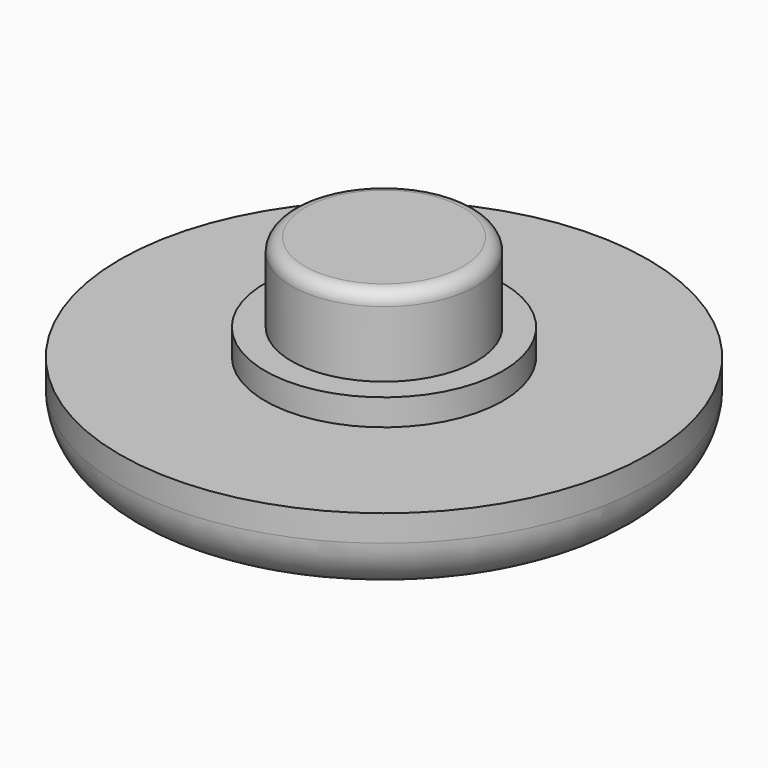
from build123d import *

# Parameters (mm, degrees)
F0_R     = 3.5
F1_DEPTH = 7
F0_R_2   = 4.5
F2_DEPTH = 4
F0_R_3   = 10
F3_DEPTH = 3
F4_R     = 2
F5_R     = 0.5


with BuildPart() as f1:
    # F0 (on Top) → F1 (new body)
    with BuildSketch(Plane.XY):
        Circle(F0_R)
    extrude(amount=F1_DEPTH)

    # F5
    f5_edges = [f1.edges().sort_by_distance(p)[0] for p in [
        (-3.5, 0, 7),
    ]]
    fillet(f5_edges, radius=F5_R)


with BuildPart() as f2:
    # F0 (on Top) → F2 (new body)
    with BuildSketch(Plane.XY):
        Circle(F0_R_2)
        Circle(F0_R, mode=Mode.SUBTRACT)
    extrude(amount=F2_DEPTH)

    # F0 (on Top) → F3 (join)
    with BuildSketch(Plane.XY):
        Circle(F0_R_3)
        Circle(F0_R_2, mode=Mode.SUBTRACT)
    extrude(amount=F3_DEPTH)

    # F4
    f4_edges = [f2.edges().sort_by_distance(p)[0] for p in [
        (-10, 0, 0),
    ]]
    fillet(f4_edges, radius=F4_R)


solid = Compound([f1.part, f2.part])
